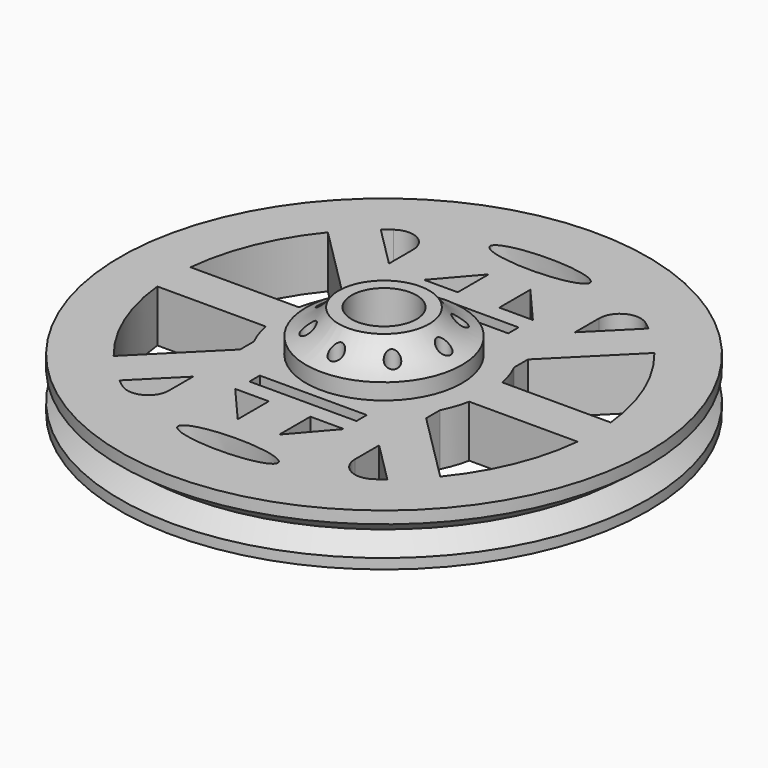
from build123d import *

# Parameters (mm, degrees)
F0_R      = 25.4
F0_R_2    = 3.125
F1_DEPTH  = 5
F2_R      = 7.5
F2_R_2    = 3.125
F3_DEPTH  = 4
F4_R      = 6.096
F7_DEPTH  = 5.001
F10_R     = 0.662213
F11_DEPTH = 9.001
F12_W     = 13.650434
F12_H     = 4
F12_W_2   = 4
F12_H_2   = 13.650434
F13_DEPTH = 5
F15_DEPTH = 12.7
F16_W     = 10.29484
F16_H     = 1.244958
F17_DEPTH = 12.7


with BuildPart() as f1:
    # F0 (on Top) → F1 (new body)
    with BuildSketch(Plane.XY):
        Circle(F0_R)
        with BuildLine():
            Line((-8.950036, 14.687379), (-8.950036, 4.46059))
            ThreePointArc((-8.950036, 4.46059), (-10, 0), (-8.950036, -4.46059))
            Line((-8.950036, -4.46059), (-8.950036, -14.687379))
            ThreePointArc((-8.950036, -14.687379), (-10.053051, -16.474953), (-12.145455, -16.290805))
            ThreePointArc((-12.145455, -16.290805), (-20.32, 0), (-12.145455, 16.290805))
            ThreePointArc((-12.145455, 16.290805), (-10.053051, 16.474953), (-8.950036, 14.687379))
        make_face(mode=Mode.SUBTRACT)
        Circle(F0_R_2, mode=Mode.SUBTRACT)
        with BuildLine():
            Line((8.950036, 4.46059), (8.950036, 14.687379))
            ThreePointArc((8.950036, 14.687379), (10.053051, 16.474953), (12.145455, 16.290805))
            ThreePointArc((12.145455, 16.290805), (20.32, 0), (12.145455, -16.290805))
            ThreePointArc((12.145455, -16.290805), (10.053051, -16.474953), (8.950036, -14.687379))
            Line((8.950036, -14.687379), (8.950036, -4.46059))
            ThreePointArc((8.950036, -4.46059), (10, 0), (8.950036, 4.46059))
        make_face(mode=Mode.SUBTRACT)
    extrude(amount=F1_DEPTH)

    # F2 (on face) → F3 (join)
    with BuildSketch(Plane.XY.offset(5)):
        Circle(F2_R)
        Circle(F2_R_2, mode=Mode.SUBTRACT)
    extrude(amount=F3_DEPTH)

    # F4 (on Front) → F5 (revolve, cut)
    with BuildSketch(Plane.XZ):
        with Locations((-9.469913, 12.312098)):
            Circle(F4_R)
    revolve(axis=Axis((0, 0, 5.050069), (0, 0, -1)), mode=Mode.SUBTRACT)

    # F6 (on face) → F7 (cut, through all)
    with BuildSketch(Plane.XY.offset(5)):
        Polygon((0, 17.41166), (0, 11.362989), (5.234685, 11.362989), align=None)
        Polygon((-5.234685, 11.362989), (0, 11.362989), (0, 17.41166), align=None)
        Polygon((0, -11.362989), (-5.234685, -11.362989), (0, -17.41166), (5.234685, -11.362989), align=None)
    extrude(amount=-F7_DEPTH, mode=Mode.SUBTRACT)

    # F8 (on Front) → F9 (revolve, cut)
    with BuildSketch(Plane.XZ):
        Polygon((-25.495, 3.902024), (-25.495, 2.402024), (-23.495, 2.402024), align=None)
        Polygon((-23.495, 2.402024), (-25.495, 2.402024), (-25.495, 0.902024), align=None)
    revolve(axis=Axis((0, 0, 20.538263), (0, 0, -1)), mode=Mode.SUBTRACT)

    # F10 (on face) → F11 (cut, through all)
    with BuildSketch(Plane.XY):
        with Locations((0, 5.743192)):
            Circle(F10_R)
        with Locations((-4.06105, 4.06105)):
            Circle(F10_R)
        with Locations((-5.743192, 0)):
            Circle(F10_R)
        with Locations((-4.06105, -4.06105)):
            Circle(F10_R)
        with Locations((0, -5.743192)):
            Circle(F10_R)
        with Locations((4.06105, -4.06105)):
            Circle(F10_R)
        with Locations((5.743192, 0)):
            Circle(F10_R)
        with Locations((4.06105, 4.06105)):
            Circle(F10_R)
    extrude(amount=F11_DEPTH, mode=Mode.SUBTRACT)

    # F12 (on Top) → F13 (join)
    with BuildSketch(Plane.XY):
        with Locations((-15.625295, 0)):
            Rectangle(F12_W, F12_H)
        Polygon((-14.460696, -17.289123), (-4.808381, -7.636809), (-7.636809, -4.808381), (-17.289123, -14.460696), align=None)
        with Locations((0, -15.625295)):
            Rectangle(F12_W_2, F12_H_2)
        Polygon((17.289123, -14.460696), (7.636809, -4.808381), (4.808381, -7.636809), (14.460696, -17.289123), align=None)
        with Locations((15.625295, 0)):
            Rectangle(F12_W, F12_H)
        Polygon((14.460696, 17.289123), (4.808381, 7.636809), (7.636809, 4.808381), (17.289123, 14.460696), align=None)
        with Locations((0, 15.625295)):
            Rectangle(F12_W_2, F12_H_2)
        Polygon((-17.289123, 14.460696), (-7.636809, 4.808381), (-4.808381, 7.636809), (-14.460696, 17.289123), align=None)
    extrude(amount=F13_DEPTH)

    # F14 (on Top) → F15 (cut, symmetric)
    with BuildSketch(Plane.XY):
        with BuildLine():
            add(Edge.make_bspline(
                [(4.797351, 18.771529), (4.797351, 20.801119), (-2.398675, 19.786324), (-9.594701, 18.771529), (-2.398675, 17.756734), (4.797351, 16.74194), (4.797351, 18.771529)],
                knots=[0, 0, 0, 2.094395, 2.094395, 4.18879, 4.18879, 6.283185, 6.283185, 6.283185], degree=2, weights=[1, 0.5, 1, 0.5, 1, 0.5, 1]))
        make_face()
        with BuildLine():
            add(Edge.make_bspline(
                [(-4.797351, -18.771529), (-4.797351, -20.801119), (2.398675, -19.786324), (9.594701, -18.771529), (2.398675, -17.756734), (-4.797351, -16.74194), (-4.797351, -18.771529)],
                knots=[0, 0, 0, 2.094395, 2.094395, 4.18879, 4.18879, 6.283185, 6.283185, 6.283185], degree=2, weights=[1, 0.5, 1, 0.5, 1, 0.5, 1]))
        make_face()
    extrude(amount=F15_DEPTH, both=True, mode=Mode.SUBTRACT)

    # F16 (on Top) → F17 (cut, symmetric)
    with BuildSketch(Plane.XY):
        with Locations((0, 9.133866)):
            Rectangle(F16_W, F16_H)
        with Locations((0, -9.133866)):
            Rectangle(F16_W, F16_H)
    extrude(amount=F17_DEPTH, both=True, mode=Mode.SUBTRACT)


solid = f1.part
